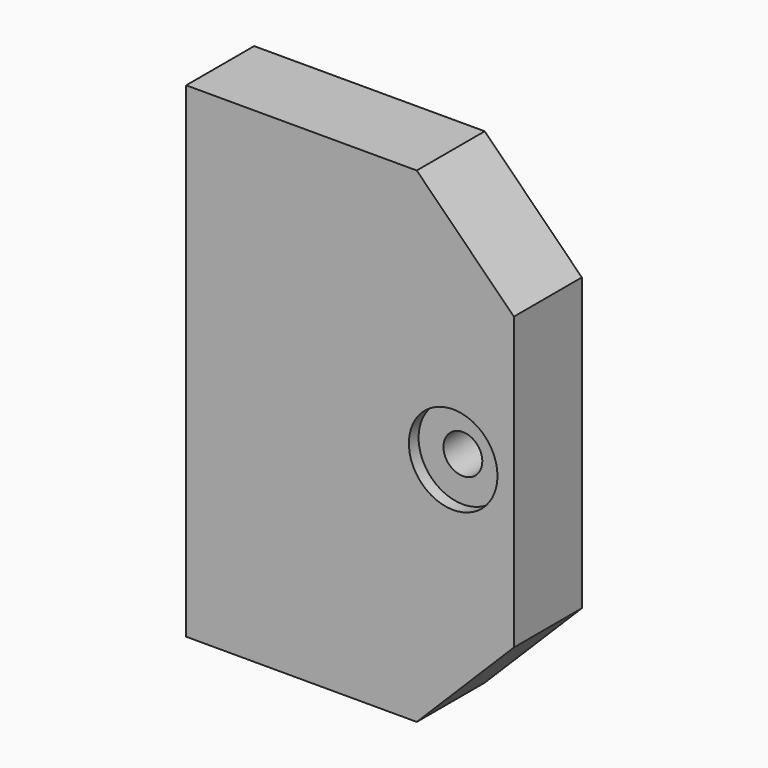
from build123d import *

# Parameters (mm, degrees)
CYLINDER003_R         = 3.65
CYLINDER003_DEPTH     = 3
CYLINDER004_R         = 1.6
CYLINDER004_DEPTH     = 10
BOX008_W              = 27
BOX008_H              = 7
BOX008_DEPTH          = 40
CHAMFER020026005_SIZE = 8


with BuildPart() as cylinder003:
    # Cylinder003 → Cylinder003 (new body)
    with BuildSketch(Plane(origin=(0, 0, 0), x_dir=(1, 0, 0), z_dir=(0, 1, 0))):
        Circle(CYLINDER003_R)
    extrude(amount=CYLINDER003_DEPTH)


with BuildPart() as m3_slot:
    # Cylinder004 → Cylinder004 (new body)
    with BuildSketch(Plane(origin=(0, 3, 0), x_dir=(1, 0, 0), z_dir=(0, 1, 0))):
        Circle(CYLINDER004_R)
    extrude(amount=CYLINDER004_DEPTH)

    # Fusion005: union Cylinder003
    add(cylinder003.part)


with BuildPart() as m3_slot_1:
    # Fusion005 placement: moved
    add(m3_slot.part.moved(Location((22, 1, 14))))


with BuildPart() as cut002002002007004004001006015:
    # Box008 → Box008 (new body)
    with BuildSketch(Plane(origin=(0, 3, -6), x_dir=(1, 0, 0), z_dir=(0, 0, 1))):
        with Locations((13.5, 3.5)):
            Rectangle(BOX008_W, BOX008_H)
    extrude(amount=BOX008_DEPTH)

    # Chamfer020026005
    chamfer020026005_edges = [cut002002002007004004001006015.edges().sort_by_distance(p)[0] for p in [
        (27, 6.5, 34),
        (27, 6.5, -6),
    ]]
    chamfer(chamfer020026005_edges, length=CHAMFER020026005_SIZE)

    # Cut002002002007004004001006015: cut m3-slot
    add(m3_slot_1.part, mode=Mode.SUBTRACT)


solid = cut002002002007004004001006015.part
